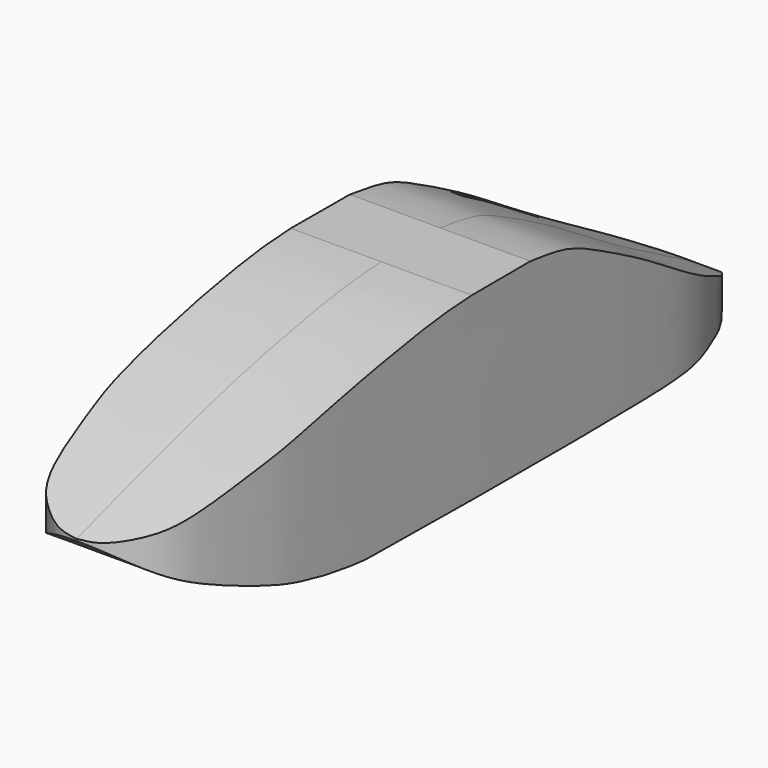
from build123d import *

# Parameters (mm, degrees)
F1_DEPTH = 300
F3_W     = 1773.0730462074
F3_H     = 3491.9237351418
F4_DEPTH = 2850
F5_W     = 40
F5_H     = 300
F6_DEPTH = 761


with BuildPart() as f1:
    # F0 (on Right) → F1 (new body, symmetric)
    with BuildSketch(Plane.YZ):
        with BuildLine():
            add(Edge.make_bspline(
                [(-73.348318253, 286.8294673972), (26.5083242771, 319.1829264065), (236.1253740027, 387.0986549361), (595.2224531832, 489.3251592564), (953.1317901908, 554.7008317601), (1058.9451809877, 559.8567037368), (1099.4319915771, 561.8294673972)],
                knots=[0, 0, 0, 0, 0.2621632959, 0.5503279025, 0.8279443754, 1, 1, 1, 1], degree=3))
            add(Edge.make_bspline(
                [(-73.348318253, 286.8294673972), (-40.6842925108, 259.52135778), (30.582520935, 199.9341074212), (201.698686249, 126.5552154124), (456.790971069, 36.544031817), (689.5279559721, 10.0767729241), (723.7059072365, 11.102796278), (733.6236365003, 11.5663011429)],
                knots=[0, 0, 0, 0, 0.1810967965, 0.395120429, 0.6645596294, 0.9026705398, 1, 1, 1, 1], degree=3))
            Line((733.6236365003, 11.5663011429), (2392.3201560974, 0))
            add(Edge.make_bspline(
                [(2392.3201560974, 0), (2359.4797241305, 50.2278585073), (2017.6537249863, 219.3748798966), (1793.1765840797, 375.3632229476), (1561.9492387137, 497.6968216636), (1464.794477563, 543.1265256919), (1360.6845367669, 557.8317882242), (1324.6895074844, 561.8294673972)],
                knots=[0, 0, 0, 0, 0.2648210891, 0.5025278204, 0.7075470611, 0.8474152692, 1, 1, 1, 1], degree=3))
            Line((1324.6895074844, 561.8294673972), (1099.4319915771, 561.8294673972))
        make_face()
    extrude(amount=F1_DEPTH, both=True)

    # F3 (on offset) → F4 (cut)
    with BuildSketch(Plane.XY.offset(586.8294673972)):
        with Locations((-72.5498378277, 1179.7574794292)):
            Rectangle(F3_W, F3_H)
        with BuildLine():
            add(Edge.make_bspline(
                [(0, 2394.70744133), (-40.3064513079, 2348.3235195442), (-167.8544616799, 2208.8885233313), (-200.5332496607, 2119.2903662571), (-254.0583592878, 2000.1669445197), (-280.1479886863, 1752.5917517216), (-280.5214068529, 455.184264538), (-255.1143740209, 322.7808067246), (-218.3108424579, 86.9879603732), (-152.3599967698, -0.0660824363), (-68.0620794501, -61.2152179255), (-22.2935472161, -66.0557179546), (0, -68.4081825614)],
                knots=[0, 0, 0, 0, 0.1083487197, 0.178122442, 0.2492276115, 0.3638545305, 0.6110680746, 0.7012282324, 0.8021185867, 0.875348267, 0.9434416191, 1, 1, 1, 1], degree=3))
            add(Edge.make_bspline(
                [(0, 2394.70744133), (40.3064513079, 2348.3235195442), (167.8544616799, 2208.8885233313), (200.5332496607, 2119.2903662571), (254.0583592878, 2000.1669445197), (280.1479886863, 1752.5917517216), (280.5214068529, 455.184264538), (255.1143740209, 322.7808067246), (218.3108424579, 86.9879603732), (152.3599967698, -0.0660824363), (68.0620794501, -61.2152179255), (22.2935472161, -66.0557179546), (0, -68.4081825614)],
                knots=[0, 0, 0, 0, 0.1083487197, 0.178122442, 0.2492276115, 0.3638545305, 0.6110680746, 0.7012282324, 0.8021185867, 0.875348267, 0.9434416191, 1, 1, 1, 1], degree=3))
        make_face(mode=Mode.SUBTRACT)
    extrude(amount=-F4_DEPTH, mode=Mode.SUBTRACT)

    # F5 (on offset) → F6 (cut)
    with BuildSketch(Plane.XY.offset(586.8294673972)):
        with Locations((-230, 1824.6895074844)):
            Rectangle(F5_W, F5_H)
    extrude(amount=-F6_DEPTH, mode=Mode.SUBTRACT)


solid = f1.part
